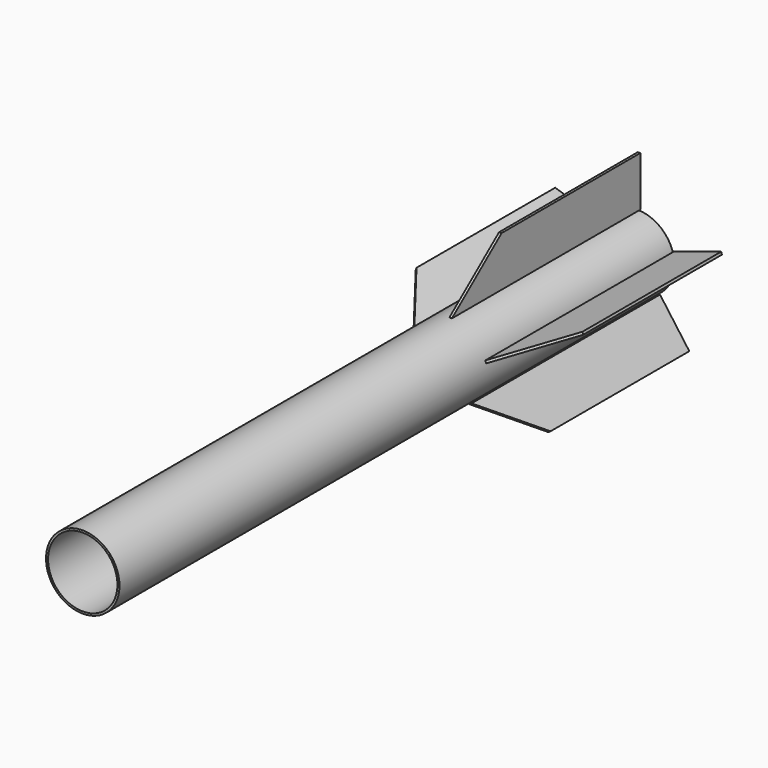
from build123d import *

# Parameters (mm, degrees)
F0_R     = 11.65
F0_R_2   = 11
F1_DEPTH = 220
F3_DEPTH = 0.8
F4_COUNT = 5


with BuildPart() as f1:
    # F0 (on Front) → F1 (new body)
    with BuildSketch(Plane.XZ):
        Circle(F0_R)
        Circle(F0_R_2, mode=Mode.SUBTRACT)
    extrude(amount=F1_DEPTH)


with BuildPart() as f3:
    # F2 (on Right) → F3 (new body)
    with BuildSketch(Plane.YZ):
        Polygon((-74.688181, 11.979237), (0, 11.979237), (0, 27.787043), (-54.994505, 27.787043), align=None)
    extrude(amount=F3_DEPTH)


with BuildPart() as f4_1:
    # F4: instance of F3
    add(f3.part.rotate(Axis((0, 0, 0), (0, 1, 0)), 1 * 360 / F4_COUNT))


with BuildPart() as f4_2:
    # F4: instance of F3
    add(f3.part.rotate(Axis((0, 0, 0), (0, 1, 0)), 2 * 360 / F4_COUNT))


with BuildPart() as f4_3:
    # F4: instance of F3
    add(f3.part.rotate(Axis((0, 0, 0), (0, 1, 0)), 3 * 360 / F4_COUNT))


with BuildPart() as f4_4:
    # F4: instance of F3
    add(f3.part.rotate(Axis((0, 0, 0), (0, 1, 0)), 4 * 360 / F4_COUNT))


solid = Compound([f1.part, f3.part, f4_1.part, f4_2.part, f4_3.part, f4_4.part])
